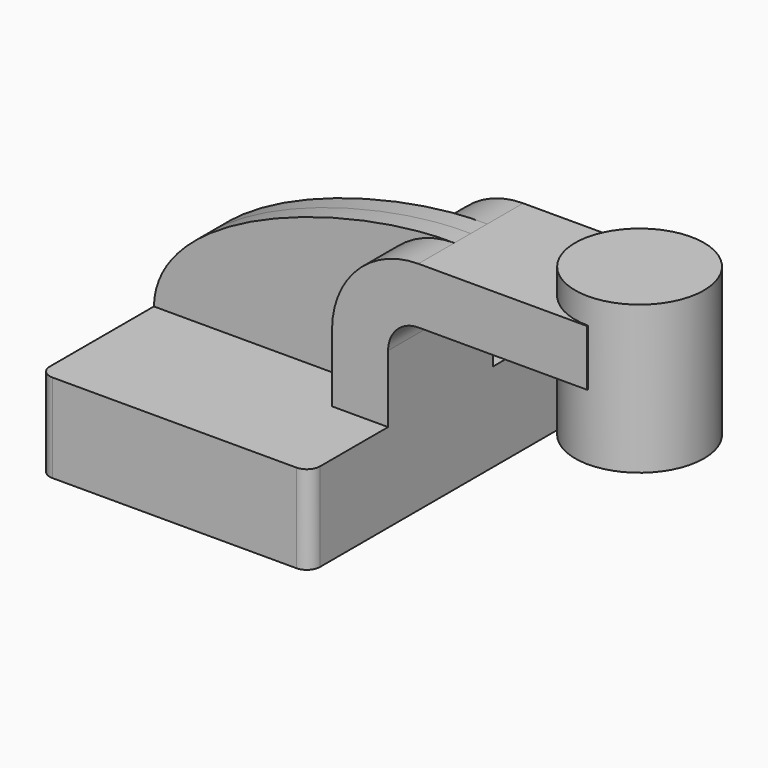
from build123d import *

# Parameters (mm, degrees)
F1_DEPTH = 63.5
F0_W     = 25.4670892687
F0_H     = 21.7436235398
F2_DEPTH = 25.4
F3_DEPTH = 7.9375
F5_R     = 5.08


with BuildPart() as f1:
    # F0 (on Front) → F1 (new body, symmetric)
    with BuildSketch(Plane.XZ):
        Polygon((52.4020902812, -17.1774495393), (52.4020902812, 17.1774495393), (30.6584667414, 17.1774495393), (-52.4020902812, 17.1774495393), (-52.4020902812, -17.1774495393), align=None)
    extrude(amount=F1_DEPTH, both=True)

    # F0 (on Front) → F2 (join, symmetric)
    with BuildSketch(Plane.XZ):
        with BuildLine():
            Line((30.6584667414, 17.1774495393), (52.4020902812, 17.1774495393))
            Line((52.4020902812, 17.1774495393), (52.4020902812, 43.2697720826))
            ThreePointArc((52.4020902812, 43.2697720826), (55.8411102963, 51.5723008442), (64.1436390579, 55.0113208592))
            Line((64.1436390579, 55.0113208592), (104.1518747807, 55.0113208592))
            Line((104.1518747807, 55.0113208592), (104.1518747807, 76.754944399))
            Line((104.1518747807, 76.754944399), (64.1436390579, 76.754944399))
            ThreePointArc((64.1436390579, 76.754944399), (40.4660466437, 66.9473644967), (30.6584667414, 43.2697720826))
            Line((30.6584667414, 43.2697720826), (30.6584667414, 17.1774495393))
        make_face()
        with Locations((116.885419415, 65.8831326291)):
            Rectangle(F0_W, F0_H)
        with Locations((116.885419415, 65.8831326291)):
            Rectangle(F0_W, F0_H)
    extrude(amount=F2_DEPTH, both=True)

    # F0 (on Front) → F3 (join, symmetric)
    with BuildSketch(Plane.XZ):
        with BuildLine():
            Line((-52.4020902812, 17.1774495393), (30.6584667414, 17.1774495393))
            Line((30.6584667414, 17.1774495393), (30.6584667414, 43.2697720826))
            ThreePointArc((30.6584667414, 43.2697720826), (40.4660466437, 66.9473644967), (64.1436390579, 76.754944399))
            add(Edge.make_bspline(
                [(-52.4020902812, 17.1774495393), (-51.5323504806, 54.1415736079), (24.5702583343, 77.6246711612), (64.1436390579, 76.754944399)],
                knots=[0, 0, 0, 0, 130.8907365743, 130.8907365743, 130.8907365743, 130.8907365743], degree=3))
        make_face()
    extrude(amount=F3_DEPTH, both=True)

    # F0 (on Front) → F4 (revolve)
    with BuildSketch(Plane.XZ):
        Polygon((129.6189640493, 76.754944399), (129.6189640493, 55.0113208592), (129.6189640493, 29.353864491), (154.5970141888, 29.353864491), (154.5970141888, 86.7569819093), (129.6189640493, 86.7569819093), align=None)
    revolve(axis=Axis((129.6189640493, 0, 58.0554232001), (0, 0, -1)))

    # F5
    f5_edges = [f1.edges().sort_by_distance(p)[0] for p in [
        (-52.40209, -63.5, 0),
        (52.40209, -63.5, 0),
        (52.40209, 63.5, 0),
        (-52.40209, 63.5, 0),
    ]]
    fillet(f5_edges, radius=F5_R)


solid = f1.part
